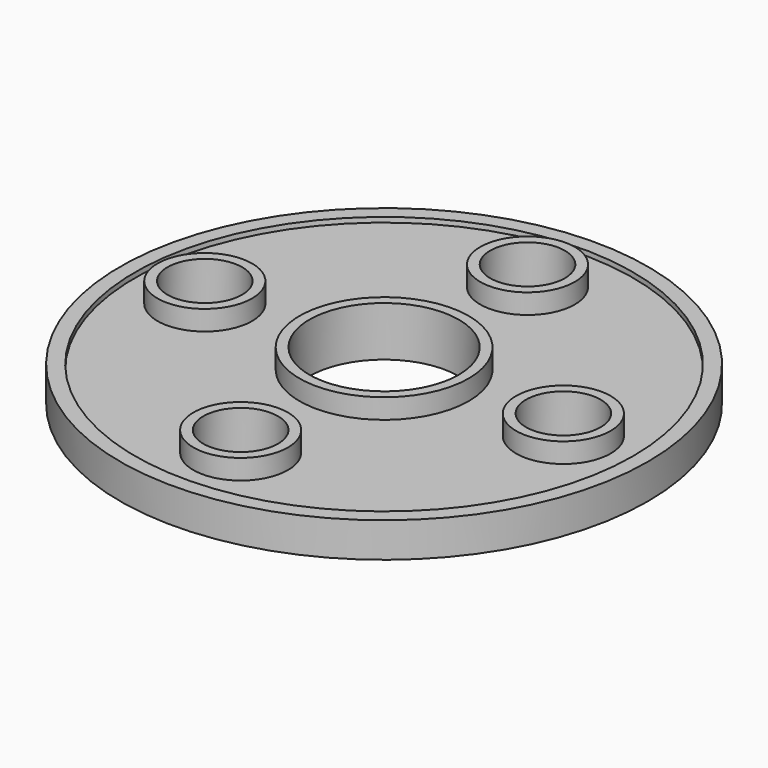
from build123d import *

# Parameters (mm, degrees)
F0_R     = 50
F0_R_2   = 9.5
F0_R_3   = 17
F1_DEPTH = 6
F0_R_4   = 53
F2_DEPTH = 7
F0_R_5   = 7.5
F0_R_6   = 15
F3_DEPTH = 10


with BuildPart() as f1:
    # F0 (on Top) → F1 (new body)
    with BuildSketch(Plane.XY):
        Circle(F0_R)
        with Locations((0, -36)):
            Circle(F0_R_2, mode=Mode.SUBTRACT)
        with Locations((-36, 0)):
            Circle(F0_R_2, mode=Mode.SUBTRACT)
        Circle(F0_R_3, mode=Mode.SUBTRACT)
        with Locations((36, 0)):
            Circle(F0_R_2, mode=Mode.SUBTRACT)
        with Locations((0, 36)):
            Circle(F0_R_2, mode=Mode.SUBTRACT)
    extrude(amount=F1_DEPTH)

    # F0 (on Top) → F2 (join)
    with BuildSketch(Plane.XY):
        Circle(F0_R_4)
        Circle(F0_R, mode=Mode.SUBTRACT)
    extrude(amount=F2_DEPTH)

    # F0 (on Top) → F3 (join)
    with BuildSketch(Plane.XY):
        with Locations((0, -36)):
            Circle(F0_R_2)
        with Locations((0, -36)):
            Circle(F0_R_5, mode=Mode.SUBTRACT)
        with Locations((-36, 0)):
            Circle(F0_R_2)
        with Locations((-36, 0)):
            Circle(F0_R_5, mode=Mode.SUBTRACT)
        Circle(F0_R_3)
        Circle(F0_R_6, mode=Mode.SUBTRACT)
        with Locations((0, 36)):
            Circle(F0_R_2)
        with Locations((0, 36)):
            Circle(F0_R_5, mode=Mode.SUBTRACT)
        with Locations((36, 0)):
            Circle(F0_R_2)
        with Locations((36, 0)):
            Circle(F0_R_5, mode=Mode.SUBTRACT)
    extrude(amount=F3_DEPTH)


solid = f1.part
